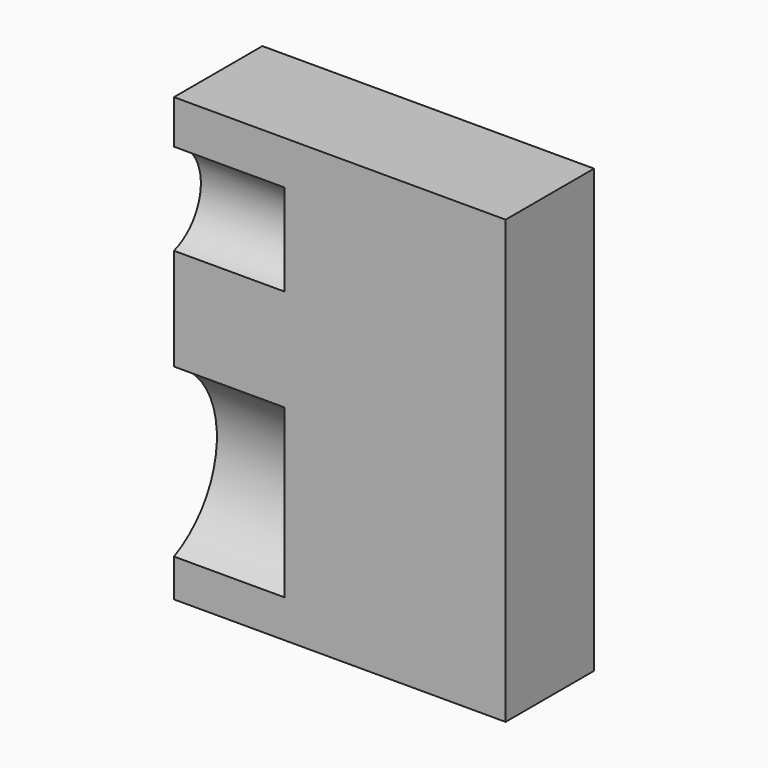
from build123d import *

# Parameters (mm, degrees)
F0_W     = 76.2
F0_H     = 101.6
F1_DEPTH = 25.4
F2_R     = 11.0359
F2_R_2   = 21.130394
F3_DEPTH = 25.4


with BuildPart() as f1:
    # F0 (on Front) → F1 (new body)
    with BuildSketch(Plane.XZ):
        with Locations((38.1, 50.8)):
            Rectangle(F0_W, F0_H)
    extrude(amount=F1_DEPTH)

    # F2 (on face) → F3 (cut)
    with BuildSketch(Plane(origin=(0, 0, 0), x_dir=(0, -1, 0), z_dir=(-1, 0, 0))):
        with Locations((28.718064, 81.054114)):
            Circle(F2_R)
        with Locations((34.202244, 27.885986)):
            Circle(F2_R_2)
    extrude(amount=-F3_DEPTH, mode=Mode.SUBTRACT)


solid = f1.part
